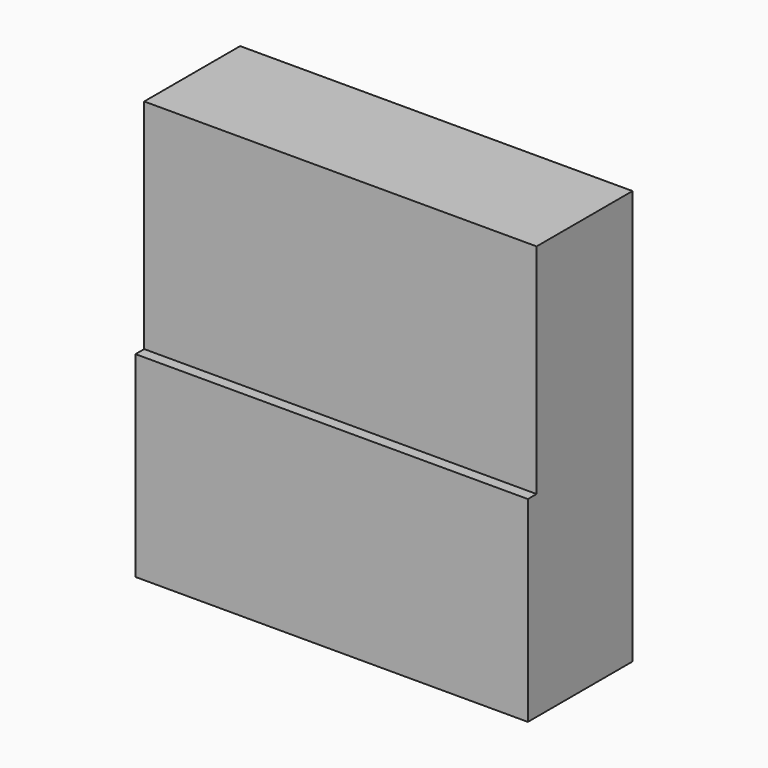
from build123d import *

# Parameters (mm, degrees)
F0_W     = 457.2
F0_H     = 457.2
F1_DEPTH = 152.4
F2_W     = 457.2
F2_H     = 228.6
F3_DEPTH = 12.7
F4_W     = 457.2
F4_H     = 139.7
F5_DEPTH = 25.4


with BuildPart() as f1:
    # F0 (on Front) → F1 (new body)
    with BuildSketch(Plane.XZ):
        Rectangle(F0_W, F0_H)
    extrude(amount=F1_DEPTH)

    # F2 (on face) → F3 (cut)
    with BuildSketch(Plane.XZ.offset(152.4)):
        with Locations((0, 114.3)):
            Rectangle(F2_W, F2_H)
    extrude(amount=-F3_DEPTH, mode=Mode.SUBTRACT)

    # F4 (on face) → F5 (join)
    with BuildSketch(Plane.XY.offset(228.6)):
        with Locations((0, -69.85)):
            Rectangle(F4_W, F4_H)
    extrude(amount=F5_DEPTH)


solid = f1.part
